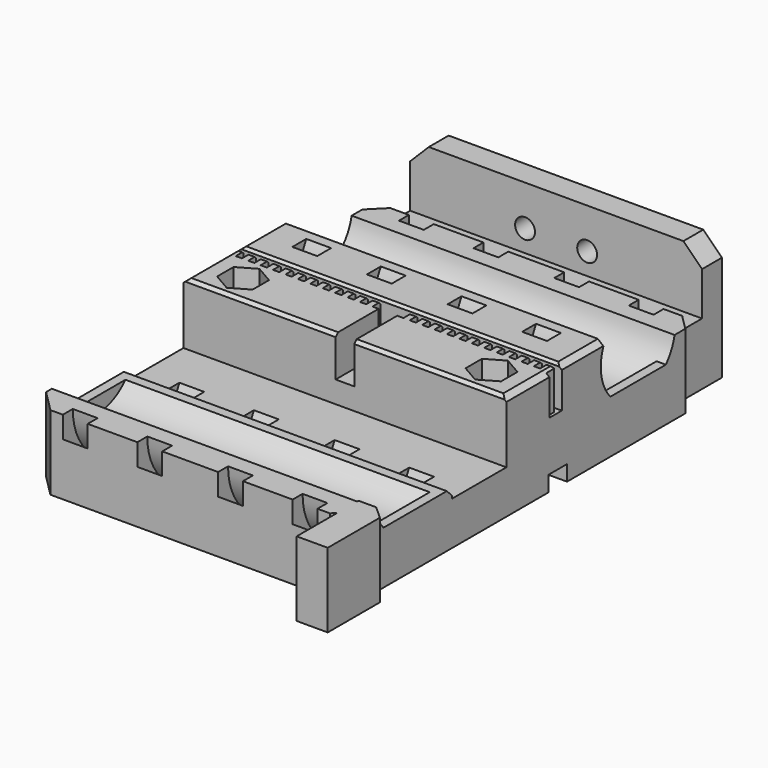
from build123d import *

# Parameters (mm, degrees)
CYLINDER013_R            = 10
CYLINDER013_DEPTH        = 24
CYLINDER012_R            = 12.5
CYLINDER012_DEPTH        = 4
CYLINDER011_R            = 12.5
CYLINDER011_DEPTH        = 4
CYLINDER010_R            = 10
CYLINDER010_DEPTH        = 24
CYLINDER009_R            = 12.5
CYLINDER009_DEPTH        = 4
CYLINDER008_R            = 12.5
CYLINDER008_DEPTH        = 4
CUBE047_W                = 24
CUBE047_H                = 6
CUBE047_DEPTH            = 8
CUBE046_W                = 24
CUBE046_H                = 6
CUBE046_DEPTH            = 8
CYLINDER007_R            = 7.5
CYLINDER007_DEPTH        = 60
GROUP006_PLACEMENT_ANGLE = 90
CUBE048_W                = 80
CUBE048_H                = 3.7
CUBE048_DEPTH            = 2.6
PRISM_DEPTH              = 20
PRISM_PLACEMENT_ANGLE    = 30
CYLINDER014_R            = 1.7
CYLINDER014_DEPTH        = 20
PRISM001_DEPTH           = 20
PRISM001_PLACEMENT_ANGLE = 30
CYLINDER015_R            = 1.7
CYLINDER015_DEPTH        = 20
CYLINDER006_R            = 10
CYLINDER006_DEPTH        = 24
CYLINDER005_R            = 12.5
CYLINDER005_DEPTH        = 4
CYLINDER004_R            = 12.5
CYLINDER004_DEPTH        = 4
CYLINDER003_R            = 10
CYLINDER003_DEPTH        = 24
CYLINDER002_R            = 12.5
CYLINDER002_DEPTH        = 4
CYLINDER001_R            = 12.5
CYLINDER001_DEPTH        = 4
CUBE045_W                = 24
CUBE045_H                = 6
CUBE045_DEPTH            = 8
CUBE044_W                = 24
CUBE044_H                = 6
CUBE044_DEPTH            = 8
CYLINDER_R               = 7.5
CYLINDER_DEPTH           = 60
GROUP004_PLACEMENT_ANGLE = 90
CUBE050_W                = 30
CUBE050_H                = 30
CUBE050_DEPTH            = 20
CUBE050_PLACEMENT_ANGLE  = 45
CUBE051_W                = 30
CUBE051_H                = 30
CUBE051_DEPTH            = 20
CUBE051_PLACEMENT_ANGLE  = 225
CUBE052_W                = 30
CUBE052_H                = 30
CUBE052_DEPTH            = 20
CUBE052_PLACEMENT_ANGLE  = 225
CUBE053_W                = 52
CUBE053_H                = 10
CUBE053_DEPTH            = 10
CUBE053_PLACEMENT_ANGLE  = 45
CUBE054_W                = 10
CUBE054_H                = 40
CUBE054_DEPTH            = 10
CUBE054_PLACEMENT_ANGLE  = 40
CUBE055_W                = 10
CUBE055_H                = 40
CUBE055_DEPTH            = 10
CUBE055_PLACEMENT_ANGLE  = 50
CUBE049_W                = 30
CUBE049_H                = 30
CUBE049_DEPTH            = 20
CUBE049_PLACEMENT_ANGLE  = 45
CUBE005_W                = 70
CUBE005_H                = 11
CUBE005_DEPTH            = 15
CUBE006_W                = 70
CUBE006_H                = 11
CUBE006_DEPTH            = 15
CUBE007_W                = 70
CUBE007_H                = 11
CUBE007_DEPTH            = 15
CUBE007_PLACEMENT_ANGLE  = 45
CUBE008_W                = 60
CUBE008_H                = 0.9
CUBE008_DEPTH            = 15
CUBE009_W                = 68
CUBE009_H                = 15
CUBE009_DEPTH            = 15
CUBE009_PLACEMENT_ANGLE  = 45
CUBE011_W                = 1
CUBE011_H                = 1.7
CUBE011_DEPTH            = 15
CUBE012_W                = 1
CUBE012_H                = 1.7
CUBE012_DEPTH            = 15
CUBE013_W                = 1
CUBE013_H                = 1.7
CUBE013_DEPTH            = 15
CUBE014_W                = 1
CUBE014_H                = 1.7
CUBE014_DEPTH            = 15
CUBE015_W                = 1
CUBE015_H                = 1.7
CUBE015_DEPTH            = 15
CUBE016_W                = 1
CUBE016_H                = 1.7
CUBE016_DEPTH            = 15
CUBE017_W                = 1
CUBE017_H                = 1.7
CUBE017_DEPTH            = 15
CUBE018_W                = 1
CUBE018_H                = 1.7
CUBE018_DEPTH            = 15
CUBE019_W                = 1
CUBE019_H                = 1.7
CUBE019_DEPTH            = 15
CUBE020_W                = 1
CUBE020_H                = 1.7
CUBE020_DEPTH            = 15
CUBE021_W                = 1
CUBE021_H                = 1.7
CUBE021_DEPTH            = 15
CUBE022_W                = 1
CUBE022_H                = 1.7
CUBE022_DEPTH            = 15
CUBE023_W                = 1
CUBE023_H                = 1.7
CUBE023_DEPTH            = 15
CUBE024_W                = 1
CUBE024_H                = 1.7
CUBE024_DEPTH            = 15
CUBE025_W                = 1
CUBE025_H                = 1.7
CUBE025_DEPTH            = 15
CUBE026_W                = 1
CUBE026_H                = 1.7
CUBE026_DEPTH            = 15
CUBE027_W                = 1
CUBE027_H                = 1.7
CUBE027_DEPTH            = 15
CUBE028_W                = 1
CUBE028_H                = 1.7
CUBE028_DEPTH            = 15
CUBE029_W                = 1
CUBE029_H                = 1.7
CUBE029_DEPTH            = 15
CUBE030_W                = 1
CUBE030_H                = 1.7
CUBE030_DEPTH            = 15
CUBE031_W                = 1
CUBE031_H                = 1.7
CUBE031_DEPTH            = 15
CUBE032_W                = 1
CUBE032_H                = 1.7
CUBE032_DEPTH            = 15
CUBE033_W                = 1
CUBE033_H                = 1.7
CUBE033_DEPTH            = 15
CUBE034_W                = 1
CUBE034_H                = 1.7
CUBE034_DEPTH            = 15
CUBE035_W                = 1
CUBE035_H                = 1.7
CUBE035_DEPTH            = 15
CUBE036_W                = 1
CUBE036_H                = 1.7
CUBE036_DEPTH            = 15
CUBE037_W                = 1
CUBE037_H                = 1.7
CUBE037_DEPTH            = 15
CUBE038_W                = 1
CUBE038_H                = 1.7
CUBE038_DEPTH            = 15
CUBE039_W                = 1
CUBE039_H                = 1.7
CUBE039_DEPTH            = 15
CUBE040_W                = 1
CUBE040_H                = 1.7
CUBE040_DEPTH            = 15
CUBE041_W                = 1
CUBE041_H                = 1.7
CUBE041_DEPTH            = 15
CUBE042_W                = 1
CUBE042_H                = 1.7
CUBE042_DEPTH            = 15
CUBE043_W                = 1
CUBE043_H                = 1.7
CUBE043_DEPTH            = 15
CUBE010_W                = 1
CUBE010_H                = 1.7
CUBE010_DEPTH            = 15
CUBE004_W                = 3
CUBE004_H                = 16
CUBE004_DEPTH            = 15
CUBE001_W                = 24
CUBE001_H                = 52
CUBE001_DEPTH            = 12
CUBE002_W                = 52
CUBE002_H                = 21
CUBE002_DEPTH            = 17
CUBE003_W                = 52
CUBE003_H                = 69
CUBE003_DEPTH            = 8.5
CUBE_W                   = 24
CUBE_H                   = 52
CUBE_DEPTH               = 12
PAD_DEPTH                = 12
SKETCH001_W              = 47
SKETCH001_H              = 8
PAD001_DEPTH             = 10
SKETCH002_W              = 47
SKETCH002_H              = 4
PAD002_DEPTH             = 10
CHAMFER_SIZE             = 3
SKETCH003_R              = 1.6
POCKET_DEPTH             = 5


with BuildPart() as cylinder013:
    # cylinder013 → cylinder013 (new body)
    with BuildSketch(Plane(origin=(0, 10, 12), x_dir=(1, 0, 0), z_dir=(0, -1, 0))):
        Circle(CYLINDER013_R)
    extrude(amount=CYLINDER013_DEPTH)


with BuildPart() as cylinder012:
    # cylinder012 → cylinder012 (new body)
    with BuildSketch(Plane(origin=(0, 8, 12), x_dir=(1, 0, 0), z_dir=(0, -1, 0))):
        Circle(CYLINDER012_R)
    extrude(amount=CYLINDER012_DEPTH)


with BuildPart() as difference005:
    # cylinder011 → cylinder011 (new body)
    with BuildSketch(Plane(origin=(0, -4, 12), x_dir=(1, 0, 0), z_dir=(0, -1, 0))):
        Circle(CYLINDER011_R)
    extrude(amount=CYLINDER011_DEPTH)

    # union005: union cylinder012
    add(cylinder012.part)

    # difference005: cut cylinder013
    add(cylinder013.part, mode=Mode.SUBTRACT)


with BuildPart() as difference005_1:
    # difference005 placement: moved
    add(difference005.part.moved(Location((0, 12.5, 0))))


with BuildPart() as cylinder010:
    # cylinder010 → cylinder010 (new body)
    with BuildSketch(Plane(origin=(0, 10, 12), x_dir=(1, 0, 0), z_dir=(0, -1, 0))):
        Circle(CYLINDER010_R)
    extrude(amount=CYLINDER010_DEPTH)


with BuildPart() as cylinder009:
    # cylinder009 → cylinder009 (new body)
    with BuildSketch(Plane(origin=(0, 8, 12), x_dir=(1, 0, 0), z_dir=(0, -1, 0))):
        Circle(CYLINDER009_R)
    extrude(amount=CYLINDER009_DEPTH)


with BuildPart() as group005:
    # cylinder008 → cylinder008 (new body)
    with BuildSketch(Plane(origin=(0, -4, 12), x_dir=(1, 0, 0), z_dir=(0, -1, 0))):
        Circle(CYLINDER008_R)
    extrude(amount=CYLINDER008_DEPTH)

    # union004: union cylinder009
    add(cylinder009.part)

    # difference004: cut cylinder010
    add(cylinder010.part, mode=Mode.SUBTRACT)


with BuildPart() as group005_1:
    # difference004 placement: moved
    add(group005.part.moved(Location((0, -12.5, 0))))

    # Group005: union difference005
    add(difference005_1.part)


with BuildPart() as cube047:
    # cube047 → cube047 (new body)
    with BuildSketch(Plane(origin=(-12, 24.5, 0.5), x_dir=(1, 0, 0), z_dir=(0, 0, 1))):
        with Locations((12, 3)):
            Rectangle(CUBE047_W, CUBE047_H)
    extrude(amount=CUBE047_DEPTH)


with BuildPart() as union003:
    # cube046 → cube046 (new body)
    with BuildSketch(Plane(origin=(-12, -30.5, 0.5), x_dir=(1, 0, 0), z_dir=(0, 0, 1))):
        with Locations((12, 3)):
            Rectangle(CUBE046_W, CUBE046_H)
    extrude(amount=CUBE046_DEPTH)

    # union003: union cube047
    add(cube047.part)


with BuildPart() as group006:
    # cylinder007 → cylinder007 (new body)
    with BuildSketch(Plane(origin=(0, 30, 13.5), x_dir=(1, 0, 0), z_dir=(0, -1, 0))):
        Circle(CYLINDER007_R)
    extrude(amount=CYLINDER007_DEPTH)

    # difference003: cut union003
    add(union003.part, mode=Mode.SUBTRACT)

    # Group006: union Group005
    add(group005_1.part)


with BuildPart() as group006_1:
    # Group006 placement: moved
    add(group006.part.moved(Location((0, 45, 0))).rotate(Axis((0, 45, 0), (0, 0, 1)), GROUP006_PLACEMENT_ANGLE))


with BuildPart() as cube048:
    # cube048 → cube048 (new body)
    with BuildSketch(Plane(origin=(-40, 27, -0.1), x_dir=(1, 0, 0), z_dir=(0, 0, 1))):
        with Locations((40, 1.85)):
            Rectangle(CUBE048_W, CUBE048_H)
    extrude(amount=CUBE048_DEPTH)


with BuildPart() as prism:
    # prism → prism (new body)
    with BuildSketch(Plane.XY):
        Polygon((3.3, 0), (1.65, 2.857884), (-1.65, 2.857884), (-3.3, 0), (-1.65, -2.857884), (1.65, -2.857884), align=None)
    extrude(amount=PRISM_DEPTH)


with BuildPart() as prism_1:
    # prism placement: moved
    add(prism.part.moved(Location((20, 0, 10))).rotate(Axis((20, 0, 10), (0, 0, 1)), PRISM_PLACEMENT_ANGLE))


with BuildPart() as matrix_union:
    # cylinder014 → cylinder014 (new body)
    with BuildSketch(Plane(origin=(20, 0, 0), x_dir=(1, 0, 0), z_dir=(0, 0, 1))):
        Circle(CYLINDER014_R)
    extrude(amount=CYLINDER014_DEPTH)

    # Matrix_Union: union prism
    add(prism_1.part)


with BuildPart() as matrix_union_1:
    # Matrix_Union placement: moved
    add(matrix_union.part.moved(Location((0, 23, -0.1))))


with BuildPart() as prism001:
    # prism001 → prism001 (new body)
    with BuildSketch(Plane.XY):
        Polygon((3.3, 0), (1.65, 2.857884), (-1.65, 2.857884), (-3.3, 0), (-1.65, -2.857884), (1.65, -2.857884), align=None)
    extrude(amount=PRISM001_DEPTH)


with BuildPart() as prism001_1:
    # prism001 placement: moved
    add(prism001.part.moved(Location((-20, 0, 10))).rotate(Axis((-20, 0, 10), (0, 0, 1)), PRISM001_PLACEMENT_ANGLE))


with BuildPart() as matrix_union001:
    # cylinder015 → cylinder015 (new body)
    with BuildSketch(Plane(origin=(-20, 0, 0), x_dir=(1, 0, 0), z_dir=(0, 0, 1))):
        Circle(CYLINDER015_R)
    extrude(amount=CYLINDER015_DEPTH)

    # Matrix_Union001: union prism001
    add(prism001_1.part)


with BuildPart() as matrix_union001_1:
    # Matrix_Union001 placement: moved
    add(matrix_union001.part.moved(Location((0, 23, -0.1))))


with BuildPart() as cylinder006:
    # cylinder006 → cylinder006 (new body)
    with BuildSketch(Plane(origin=(0, 10, 12), x_dir=(1, 0, 0), z_dir=(0, -1, 0))):
        Circle(CYLINDER006_R)
    extrude(amount=CYLINDER006_DEPTH)


with BuildPart() as cylinder005:
    # cylinder005 → cylinder005 (new body)
    with BuildSketch(Plane(origin=(0, 8, 12), x_dir=(1, 0, 0), z_dir=(0, -1, 0))):
        Circle(CYLINDER005_R)
    extrude(amount=CYLINDER005_DEPTH)


with BuildPart() as difference002:
    # cylinder004 → cylinder004 (new body)
    with BuildSketch(Plane(origin=(0, -4, 12), x_dir=(1, 0, 0), z_dir=(0, -1, 0))):
        Circle(CYLINDER004_R)
    extrude(amount=CYLINDER004_DEPTH)

    # union002: union cylinder005
    add(cylinder005.part)

    # difference002: cut cylinder006
    add(cylinder006.part, mode=Mode.SUBTRACT)


with BuildPart() as difference002_1:
    # difference002 placement: moved
    add(difference002.part.moved(Location((0, 12.5, 0))))


with BuildPart() as cylinder003:
    # cylinder003 → cylinder003 (new body)
    with BuildSketch(Plane(origin=(0, 10, 12), x_dir=(1, 0, 0), z_dir=(0, -1, 0))):
        Circle(CYLINDER003_R)
    extrude(amount=CYLINDER003_DEPTH)


with BuildPart() as cylinder002:
    # cylinder002 → cylinder002 (new body)
    with BuildSketch(Plane(origin=(0, 8, 12), x_dir=(1, 0, 0), z_dir=(0, -1, 0))):
        Circle(CYLINDER002_R)
    extrude(amount=CYLINDER002_DEPTH)


with BuildPart() as group003:
    # cylinder001 → cylinder001 (new body)
    with BuildSketch(Plane(origin=(0, -4, 12), x_dir=(1, 0, 0), z_dir=(0, -1, 0))):
        Circle(CYLINDER001_R)
    extrude(amount=CYLINDER001_DEPTH)

    # union001: union cylinder002
    add(cylinder002.part)

    # difference001: cut cylinder003
    add(cylinder003.part, mode=Mode.SUBTRACT)


with BuildPart() as group003_1:
    # difference001 placement: moved
    add(group003.part.moved(Location((0, -12.5, 0))))

    # Group003: union difference002
    add(difference002_1.part)


with BuildPart() as cube045:
    # cube045 → cube045 (new body)
    with BuildSketch(Plane(origin=(-12, 24.5, 0.5), x_dir=(1, 0, 0), z_dir=(0, 0, 1))):
        with Locations((12, 3)):
            Rectangle(CUBE045_W, CUBE045_H)
    extrude(amount=CUBE045_DEPTH)


with BuildPart() as union:
    # cube044 → cube044 (new body)
    with BuildSketch(Plane(origin=(-12, -30.5, 0.5), x_dir=(1, 0, 0), z_dir=(0, 0, 1))):
        with Locations((12, 3)):
            Rectangle(CUBE044_W, CUBE044_H)
    extrude(amount=CUBE044_DEPTH)

    # union: union cube045
    add(cube045.part)


with BuildPart() as group007:
    # cylinder → cylinder (new body)
    with BuildSketch(Plane(origin=(0, 30, 13.5), x_dir=(1, 0, 0), z_dir=(0, -1, 0))):
        Circle(CYLINDER_R)
    extrude(amount=CYLINDER_DEPTH)

    # difference: cut union
    add(union.part, mode=Mode.SUBTRACT)

    # Group004: union Group003
    add(group003_1.part)


with BuildPart() as group007_1:
    # Group004 placement: moved
    add(group007.part.moved(Location((0, -0.65, 0))).rotate(Axis((0, -0.65, 0), (0, 0, 1)), GROUP004_PLACEMENT_ANGLE))

    # Group007: union Group006, cube048, Matrix_Union, Matrix_Union001
    add(group006_1.part)
    add(cube048.part)
    add(matrix_union_1.part)
    add(matrix_union001_1.part)


with BuildPart() as cube050:
    # cube050 → cube050 (new body)
    with BuildSketch(Plane.XY):
        with Locations((15, 15)):
            Rectangle(CUBE050_W, CUBE050_H)
    extrude(amount=CUBE050_DEPTH)


with BuildPart() as cube050_1:
    # cube050 placement: moved
    add(cube050.part.moved(Location((-26, 54.5, -0.1))).rotate(Axis((-26, 54.5, -0.1), (0, 0, 1)), CUBE050_PLACEMENT_ANGLE))


with BuildPart() as cube051:
    # cube051 → cube051 (new body)
    with BuildSketch(Plane.XY):
        with Locations((15, 15)):
            Rectangle(CUBE051_W, CUBE051_H)
    extrude(amount=CUBE051_DEPTH)


with BuildPart() as cube051_1:
    # cube051 placement: moved
    add(cube051.part.moved(Location((26, -9.15, -0.1))).rotate(Axis((26, -9.15, -0.1), (0, 0, 1)), CUBE051_PLACEMENT_ANGLE))


with BuildPart() as cube052:
    # cube052 → cube052 (new body)
    with BuildSketch(Plane.XY):
        with Locations((15, 15)):
            Rectangle(CUBE052_W, CUBE052_H)
    extrude(amount=CUBE052_DEPTH)


with BuildPart() as cube052_1:
    # cube052 placement: moved
    add(cube052.part.moved(Location((-26, -9.15, -0.1))).rotate(Axis((-26, -9.15, -0.1), (0, 0, 1)), CUBE052_PLACEMENT_ANGLE))


with BuildPart() as cube053:
    # cube053 → cube053 (new body)
    with BuildSketch(Plane.XY):
        with Locations((26, 5)):
            Rectangle(CUBE053_W, CUBE053_H)
    extrude(amount=CUBE053_DEPTH)


with BuildPart() as cube053_1:
    # cube053 placement: moved
    add(cube053.part.moved(Location((-26, 17, 15))).rotate(Axis((-26, 17, 15), (1, 0, 0)), CUBE053_PLACEMENT_ANGLE))


with BuildPart() as cube054:
    # cube054 → cube054 (new body)
    with BuildSketch(Plane.XY):
        with Locations((5, 20)):
            Rectangle(CUBE054_W, CUBE054_H)
    extrude(amount=CUBE054_DEPTH)


with BuildPart() as cube054_1:
    # cube054 placement: moved
    add(cube054.part.moved(Location((-27.5, 17, 15))).rotate(Axis((-27.5, 17, 15), (0, -1, 0)), CUBE054_PLACEMENT_ANGLE))


with BuildPart() as cube055:
    # cube055 → cube055 (new body)
    with BuildSketch(Plane.XY):
        with Locations((5, 20)):
            Rectangle(CUBE055_W, CUBE055_H)
    extrude(amount=CUBE055_DEPTH)


with BuildPart() as cube055_1:
    # cube055 placement: moved
    add(cube055.part.moved(Location((27.5, 17, 15))).rotate(Axis((27.5, 17, 15), (0, -1, 0)), CUBE055_PLACEMENT_ANGLE))


with BuildPart() as group008:
    # cube049 → cube049 (new body)
    with BuildSketch(Plane.XY):
        with Locations((15, 15)):
            Rectangle(CUBE049_W, CUBE049_H)
    extrude(amount=CUBE049_DEPTH)


with BuildPart() as group008_1:
    # cube049 placement: moved
    add(group008.part.moved(Location((26, 54.5, -0.1))).rotate(Axis((26, 54.5, -0.1), (0, 0, 1)), CUBE049_PLACEMENT_ANGLE))

    # Group008: union cube050, cube051, cube052, cube053, cube054, cube055
    add(cube050_1.part)
    add(cube051_1.part)
    add(cube052_1.part)
    add(cube053_1.part)
    add(cube054_1.part)
    add(cube055_1.part)


with BuildPart() as cube005:
    # cube005 → cube005 (new body)
    with BuildSketch(Plane(origin=(-35, 7.5, 7), x_dir=(1, 0, 0), z_dir=(0, 0, 1))):
        with Locations((35, 5.5)):
            Rectangle(CUBE005_W, CUBE005_H)
    extrude(amount=CUBE005_DEPTH)


with BuildPart() as cube006:
    # cube006 → cube006 (new body)
    with BuildSketch(Plane(origin=(-35, 0, 8.5), x_dir=(1, 0, 0), z_dir=(0, 0, 1))):
        with Locations((35, 5.5)):
            Rectangle(CUBE006_W, CUBE006_H)
    extrude(amount=CUBE006_DEPTH)


with BuildPart() as cube007:
    # cube007 → cube007 (new body)
    with BuildSketch(Plane.XY):
        with Locations((35, 5.5)):
            Rectangle(CUBE007_W, CUBE007_H)
    extrude(amount=CUBE007_DEPTH)


with BuildPart() as cube007_1:
    # cube007 placement: moved
    add(cube007.part.moved(Location((-35, 8, 7))).rotate(Axis((-35, 8, 7), (1, 0, 0)), CUBE007_PLACEMENT_ANGLE))


with BuildPart() as cube008:
    # cube008 → cube008 (new body)
    with BuildSketch(Plane(origin=(-30, 28.75, 10.5), x_dir=(1, 0, 0), z_dir=(0, 0, 1))):
        with Locations((30, 0.45)):
            Rectangle(CUBE008_W, CUBE008_H)
    extrude(amount=CUBE008_DEPTH)


with BuildPart() as cube009:
    # cube009 → cube009 (new body)
    with BuildSketch(Plane.XY):
        with Locations((34, 7.5)):
            Rectangle(CUBE009_W, CUBE009_H)
    extrude(amount=CUBE009_DEPTH)


with BuildPart() as cube009_1:
    # cube009 placement: moved
    add(cube009.part.moved(Location((-34, 29.25, 16.2))).rotate(Axis((-34, 29.25, 16.2), (1, 0, 0)), CUBE009_PLACEMENT_ANGLE))


with BuildPart() as cube011:
    # cube011 → cube011 (new body)
    with BuildSketch(Plane(origin=(31.5, 27.15, 10.5), x_dir=(1, 0, 0), z_dir=(0, 0, 1))):
        with Locations((0.5, 0.85)):
            Rectangle(CUBE011_W, CUBE011_H)
    extrude(amount=CUBE011_DEPTH)


with BuildPart() as cube012:
    # cube012 → cube012 (new body)
    with BuildSketch(Plane(origin=(29.5, 27.15, 10.5), x_dir=(1, 0, 0), z_dir=(0, 0, 1))):
        with Locations((0.5, 0.85)):
            Rectangle(CUBE012_W, CUBE012_H)
    extrude(amount=CUBE012_DEPTH)


with BuildPart() as cube013:
    # cube013 → cube013 (new body)
    with BuildSketch(Plane(origin=(27.5, 27.15, 10.5), x_dir=(1, 0, 0), z_dir=(0, 0, 1))):
        with Locations((0.5, 0.85)):
            Rectangle(CUBE013_W, CUBE013_H)
    extrude(amount=CUBE013_DEPTH)


with BuildPart() as cube014:
    # cube014 → cube014 (new body)
    with BuildSketch(Plane(origin=(25.5, 27.15, 10.5), x_dir=(1, 0, 0), z_dir=(0, 0, 1))):
        with Locations((0.5, 0.85)):
            Rectangle(CUBE014_W, CUBE014_H)
    extrude(amount=CUBE014_DEPTH)


with BuildPart() as cube015:
    # cube015 → cube015 (new body)
    with BuildSketch(Plane(origin=(23.5, 27.15, 10.5), x_dir=(1, 0, 0), z_dir=(0, 0, 1))):
        with Locations((0.5, 0.85)):
            Rectangle(CUBE015_W, CUBE015_H)
    extrude(amount=CUBE015_DEPTH)


with BuildPart() as cube016:
    # cube016 → cube016 (new body)
    with BuildSketch(Plane(origin=(21.5, 27.15, 10.5), x_dir=(1, 0, 0), z_dir=(0, 0, 1))):
        with Locations((0.5, 0.85)):
            Rectangle(CUBE016_W, CUBE016_H)
    extrude(amount=CUBE016_DEPTH)


with BuildPart() as cube017:
    # cube017 → cube017 (new body)
    with BuildSketch(Plane(origin=(19.5, 27.15, 10.5), x_dir=(1, 0, 0), z_dir=(0, 0, 1))):
        with Locations((0.5, 0.85)):
            Rectangle(CUBE017_W, CUBE017_H)
    extrude(amount=CUBE017_DEPTH)


with BuildPart() as cube018:
    # cube018 → cube018 (new body)
    with BuildSketch(Plane(origin=(17.5, 27.15, 10.5), x_dir=(1, 0, 0), z_dir=(0, 0, 1))):
        with Locations((0.5, 0.85)):
            Rectangle(CUBE018_W, CUBE018_H)
    extrude(amount=CUBE018_DEPTH)


with BuildPart() as cube019:
    # cube019 → cube019 (new body)
    with BuildSketch(Plane(origin=(15.5, 27.15, 10.5), x_dir=(1, 0, 0), z_dir=(0, 0, 1))):
        with Locations((0.5, 0.85)):
            Rectangle(CUBE019_W, CUBE019_H)
    extrude(amount=CUBE019_DEPTH)


with BuildPart() as cube020:
    # cube020 → cube020 (new body)
    with BuildSketch(Plane(origin=(13.5, 27.15, 10.5), x_dir=(1, 0, 0), z_dir=(0, 0, 1))):
        with Locations((0.5, 0.85)):
            Rectangle(CUBE020_W, CUBE020_H)
    extrude(amount=CUBE020_DEPTH)


with BuildPart() as cube021:
    # cube021 → cube021 (new body)
    with BuildSketch(Plane(origin=(11.5, 27.15, 10.5), x_dir=(1, 0, 0), z_dir=(0, 0, 1))):
        with Locations((0.5, 0.85)):
            Rectangle(CUBE021_W, CUBE021_H)
    extrude(amount=CUBE021_DEPTH)


with BuildPart() as cube022:
    # cube022 → cube022 (new body)
    with BuildSketch(Plane(origin=(9.5, 27.15, 10.5), x_dir=(1, 0, 0), z_dir=(0, 0, 1))):
        with Locations((0.5, 0.85)):
            Rectangle(CUBE022_W, CUBE022_H)
    extrude(amount=CUBE022_DEPTH)


with BuildPart() as cube023:
    # cube023 → cube023 (new body)
    with BuildSketch(Plane(origin=(7.5, 27.15, 10.5), x_dir=(1, 0, 0), z_dir=(0, 0, 1))):
        with Locations((0.5, 0.85)):
            Rectangle(CUBE023_W, CUBE023_H)
    extrude(amount=CUBE023_DEPTH)


with BuildPart() as cube024:
    # cube024 → cube024 (new body)
    with BuildSketch(Plane(origin=(5.5, 27.15, 10.5), x_dir=(1, 0, 0), z_dir=(0, 0, 1))):
        with Locations((0.5, 0.85)):
            Rectangle(CUBE024_W, CUBE024_H)
    extrude(amount=CUBE024_DEPTH)


with BuildPart() as cube025:
    # cube025 → cube025 (new body)
    with BuildSketch(Plane(origin=(3.5, 27.15, 10.5), x_dir=(1, 0, 0), z_dir=(0, 0, 1))):
        with Locations((0.5, 0.85)):
            Rectangle(CUBE025_W, CUBE025_H)
    extrude(amount=CUBE025_DEPTH)


with BuildPart() as cube026:
    # cube026 → cube026 (new body)
    with BuildSketch(Plane(origin=(1.5, 27.15, 10.5), x_dir=(1, 0, 0), z_dir=(0, 0, 1))):
        with Locations((0.5, 0.85)):
            Rectangle(CUBE026_W, CUBE026_H)
    extrude(amount=CUBE026_DEPTH)


with BuildPart() as cube027:
    # cube027 → cube027 (new body)
    with BuildSketch(Plane(origin=(-0.5, 27.15, 10.5), x_dir=(1, 0, 0), z_dir=(0, 0, 1))):
        with Locations((0.5, 0.85)):
            Rectangle(CUBE027_W, CUBE027_H)
    extrude(amount=CUBE027_DEPTH)


with BuildPart() as cube028:
    # cube028 → cube028 (new body)
    with BuildSketch(Plane(origin=(-2.5, 27.15, 10.5), x_dir=(1, 0, 0), z_dir=(0, 0, 1))):
        with Locations((0.5, 0.85)):
            Rectangle(CUBE028_W, CUBE028_H)
    extrude(amount=CUBE028_DEPTH)


with BuildPart() as cube029:
    # cube029 → cube029 (new body)
    with BuildSketch(Plane(origin=(-4.5, 27.15, 10.5), x_dir=(1, 0, 0), z_dir=(0, 0, 1))):
        with Locations((0.5, 0.85)):
            Rectangle(CUBE029_W, CUBE029_H)
    extrude(amount=CUBE029_DEPTH)


with BuildPart() as cube030:
    # cube030 → cube030 (new body)
    with BuildSketch(Plane(origin=(-6.5, 27.15, 10.5), x_dir=(1, 0, 0), z_dir=(0, 0, 1))):
        with Locations((0.5, 0.85)):
            Rectangle(CUBE030_W, CUBE030_H)
    extrude(amount=CUBE030_DEPTH)


with BuildPart() as cube031:
    # cube031 → cube031 (new body)
    with BuildSketch(Plane(origin=(-8.5, 27.15, 10.5), x_dir=(1, 0, 0), z_dir=(0, 0, 1))):
        with Locations((0.5, 0.85)):
            Rectangle(CUBE031_W, CUBE031_H)
    extrude(amount=CUBE031_DEPTH)


with BuildPart() as cube032:
    # cube032 → cube032 (new body)
    with BuildSketch(Plane(origin=(-10.5, 27.15, 10.5), x_dir=(1, 0, 0), z_dir=(0, 0, 1))):
        with Locations((0.5, 0.85)):
            Rectangle(CUBE032_W, CUBE032_H)
    extrude(amount=CUBE032_DEPTH)


with BuildPart() as cube033:
    # cube033 → cube033 (new body)
    with BuildSketch(Plane(origin=(-12.5, 27.15, 10.5), x_dir=(1, 0, 0), z_dir=(0, 0, 1))):
        with Locations((0.5, 0.85)):
            Rectangle(CUBE033_W, CUBE033_H)
    extrude(amount=CUBE033_DEPTH)


with BuildPart() as cube034:
    # cube034 → cube034 (new body)
    with BuildSketch(Plane(origin=(-14.5, 27.15, 10.5), x_dir=(1, 0, 0), z_dir=(0, 0, 1))):
        with Locations((0.5, 0.85)):
            Rectangle(CUBE034_W, CUBE034_H)
    extrude(amount=CUBE034_DEPTH)


with BuildPart() as cube035:
    # cube035 → cube035 (new body)
    with BuildSketch(Plane(origin=(-16.5, 27.15, 10.5), x_dir=(1, 0, 0), z_dir=(0, 0, 1))):
        with Locations((0.5, 0.85)):
            Rectangle(CUBE035_W, CUBE035_H)
    extrude(amount=CUBE035_DEPTH)


with BuildPart() as cube036:
    # cube036 → cube036 (new body)
    with BuildSketch(Plane(origin=(-18.5, 27.15, 10.5), x_dir=(1, 0, 0), z_dir=(0, 0, 1))):
        with Locations((0.5, 0.85)):
            Rectangle(CUBE036_W, CUBE036_H)
    extrude(amount=CUBE036_DEPTH)


with BuildPart() as cube037:
    # cube037 → cube037 (new body)
    with BuildSketch(Plane(origin=(-20.5, 27.15, 10.5), x_dir=(1, 0, 0), z_dir=(0, 0, 1))):
        with Locations((0.5, 0.85)):
            Rectangle(CUBE037_W, CUBE037_H)
    extrude(amount=CUBE037_DEPTH)


with BuildPart() as cube038:
    # cube038 → cube038 (new body)
    with BuildSketch(Plane(origin=(-22.5, 27.15, 10.5), x_dir=(1, 0, 0), z_dir=(0, 0, 1))):
        with Locations((0.5, 0.85)):
            Rectangle(CUBE038_W, CUBE038_H)
    extrude(amount=CUBE038_DEPTH)


with BuildPart() as cube039:
    # cube039 → cube039 (new body)
    with BuildSketch(Plane(origin=(-24.5, 27.15, 10.5), x_dir=(1, 0, 0), z_dir=(0, 0, 1))):
        with Locations((0.5, 0.85)):
            Rectangle(CUBE039_W, CUBE039_H)
    extrude(amount=CUBE039_DEPTH)


with BuildPart() as cube040:
    # cube040 → cube040 (new body)
    with BuildSketch(Plane(origin=(-26.5, 27.15, 10.5), x_dir=(1, 0, 0), z_dir=(0, 0, 1))):
        with Locations((0.5, 0.85)):
            Rectangle(CUBE040_W, CUBE040_H)
    extrude(amount=CUBE040_DEPTH)


with BuildPart() as cube041:
    # cube041 → cube041 (new body)
    with BuildSketch(Plane(origin=(-28.5, 27.15, 10.5), x_dir=(1, 0, 0), z_dir=(0, 0, 1))):
        with Locations((0.5, 0.85)):
            Rectangle(CUBE041_W, CUBE041_H)
    extrude(amount=CUBE041_DEPTH)


with BuildPart() as cube042:
    # cube042 → cube042 (new body)
    with BuildSketch(Plane(origin=(-30.5, 27.15, 10.5), x_dir=(1, 0, 0), z_dir=(0, 0, 1))):
        with Locations((0.5, 0.85)):
            Rectangle(CUBE042_W, CUBE042_H)
    extrude(amount=CUBE042_DEPTH)


with BuildPart() as cube043:
    # cube043 → cube043 (new body)
    with BuildSketch(Plane(origin=(-32.5, 27.15, 10.5), x_dir=(1, 0, 0), z_dir=(0, 0, 1))):
        with Locations((0.5, 0.85)):
            Rectangle(CUBE043_W, CUBE043_H)
    extrude(amount=CUBE043_DEPTH)


with BuildPart() as group001:
    # cube010 → cube010 (new body)
    with BuildSketch(Plane(origin=(33.5, 27.15, 10.5), x_dir=(1, 0, 0), z_dir=(0, 0, 1))):
        with Locations((0.5, 0.85)):
            Rectangle(CUBE010_W, CUBE010_H)
    extrude(amount=CUBE010_DEPTH)

    # Group001: union cube011, cube012, cube013, cube014, cube015, cube016, cube017, cube018, cube019, cube020, cube021, cube022, cube023, cube024, cube025, cube026, cube027, cube028, cube029, cube030, cube031, cube032, cube033, cube034, cube035, cube036, cube037, cube038, cube039, cube040, cube041, cube042, cube043
    add(cube011.part)
    add(cube012.part)
    add(cube013.part)
    add(cube014.part)
    add(cube015.part)
    add(cube016.part)
    add(cube017.part)
    add(cube018.part)
    add(cube019.part)
    add(cube020.part)
    add(cube021.part)
    add(cube022.part)
    add(cube023.part)
    add(cube024.part)
    add(cube025.part)
    add(cube026.part)
    add(cube027.part)
    add(cube028.part)
    add(cube029.part)
    add(cube030.part)
    add(cube031.part)
    add(cube032.part)
    add(cube033.part)
    add(cube034.part)
    add(cube035.part)
    add(cube036.part)
    add(cube037.part)
    add(cube038.part)
    add(cube039.part)
    add(cube040.part)
    add(cube041.part)
    add(cube042.part)
    add(cube043.part)


with BuildPart() as union006:
    # cube004 → cube004 (new body)
    with BuildSketch(Plane(origin=(-1.5, 13, 10.5), x_dir=(1, 0, 0), z_dir=(0, 0, 1))):
        with Locations((1.5, 8)):
            Rectangle(CUBE004_W, CUBE004_H)
    extrude(amount=CUBE004_DEPTH)

    # Group002: union cube005, cube006, cube007, cube008, cube009, Group001
    add(cube005.part)
    add(cube006.part)
    add(cube007_1.part)
    add(cube008.part)
    add(cube009_1.part)
    add(group001.part)

    # union006: union Group007, Group008
    add(group007_1.part)
    add(group008_1.part)


with BuildPart() as cube001:
    # cube001 → cube001 (new body)
    with BuildSketch(Plane(origin=(26, 33, 0), x_dir=(0, 1, 0), z_dir=(0, 0, 1))):
        with Locations((12, 26)):
            Rectangle(CUBE001_W, CUBE001_H)
    extrude(amount=CUBE001_DEPTH)


with BuildPart() as cube002:
    # cube002 → cube002 (new body)
    with BuildSketch(Plane(origin=(-26, 17, 0), x_dir=(1, 0, 0), z_dir=(0, 0, 1))):
        with Locations((26, 10.5)):
            Rectangle(CUBE002_W, CUBE002_H)
    extrude(amount=CUBE002_DEPTH)


with BuildPart() as cube003:
    # cube003 → cube003 (new body)
    with BuildSketch(Plane(origin=(-26, -12, 0), x_dir=(1, 0, 0), z_dir=(0, 0, 1))):
        with Locations((26, 34.5)):
            Rectangle(CUBE003_W, CUBE003_H)
    extrude(amount=CUBE003_DEPTH)


with BuildPart() as body:
    # cube → cube (new body)
    with BuildSketch(Plane(origin=(26, -12.65, 0), x_dir=(0, 1, 0), z_dir=(0, 0, 1))):
        with Locations((12, 26)):
            Rectangle(CUBE_W, CUBE_H)
    extrude(amount=CUBE_DEPTH)

    # Group: union cube001, cube002, cube003
    add(cube001.part)
    add(cube002.part)
    add(cube003.part)

    # difference006: cut union006
    add(union006.part, mode=Mode.SUBTRACT)

    # Sketch (on Face27 of BaseFeature) → Pad (new body)
    with BuildSketch(Plane(origin=(0, 0, 0), x_dir=(1, 0, 0), z_dir=(0, 0, -1))):
        Polygon((26, 7.722326), (28.15, 9.651655), (28.15, 20.15), (23.15, 20.15), (23.15, 12), (23.15, 7.722326), align=None)
    extrude(amount=-PAD_DEPTH)

    # Sketch001 (on Face221 of Pad) → Pad001 (join)
    with BuildSketch(Plane(origin=(0, 0, 0), x_dir=(1, 0, 0), z_dir=(0, 0, -1))):
        with Locations((0, -61)):
            Rectangle(SKETCH001_W, SKETCH001_H)
    extrude(amount=-PAD001_DEPTH)

    # Sketch002 (on Face234 of Pad001) → Pad002 (join)
    with BuildSketch(Plane.XY.offset(10)):
        with Locations((0, 63)):
            Rectangle(SKETCH002_W, SKETCH002_H)
    extrude(amount=PAD002_DEPTH)

    # Chamfer
    chamfer_edges = [body.edges().sort_by_distance(p)[0] for p in [
        (-23.5, 63, 20),
        (23.5, 63, 20),
    ]]
    chamfer(chamfer_edges, length=CHAMFER_SIZE)

    # Sketch003 (on Face5 of Chamfer) → Pocket (cut)
    with BuildSketch(Plane(origin=(0, 65, 0), x_dir=(-1, 0, 0), z_dir=(0, 1, 0))):
        with Locations((-5, 13.50484)):
            Circle(SKETCH003_R)
        with Locations((5, 13.50484)):
            Circle(SKETCH003_R)
    extrude(amount=-POCKET_DEPTH, mode=Mode.SUBTRACT)


solid = body.part
